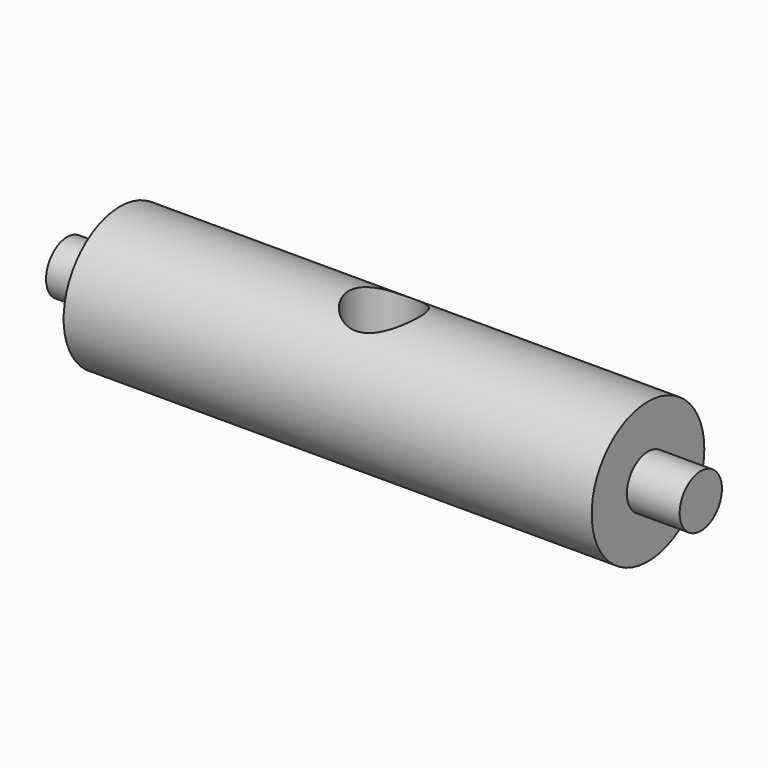
from build123d import *

# Parameters (mm, degrees)
F2_R     = 2
F3_DEPTH = 5


with BuildPart() as f1:
    # F0 (on Top) → F1 (revolve)
    with BuildSketch(Plane.XY):
        Polygon((-18, 1.5), (-18, 0), (18, 0), (18, 1.5), (15, 1.5), (15, 4), (-15, 4), (-15, 1.5), align=None)
    revolve(axis=Axis((0, 0, 0), (-1, 0, 0)))

    # F2 (on Top) → F3 (cut, symmetric)
    with BuildSketch(Plane.XY):
        Circle(F2_R)
    extrude(amount=F3_DEPTH, both=True, mode=Mode.SUBTRACT)


solid = f1.part
